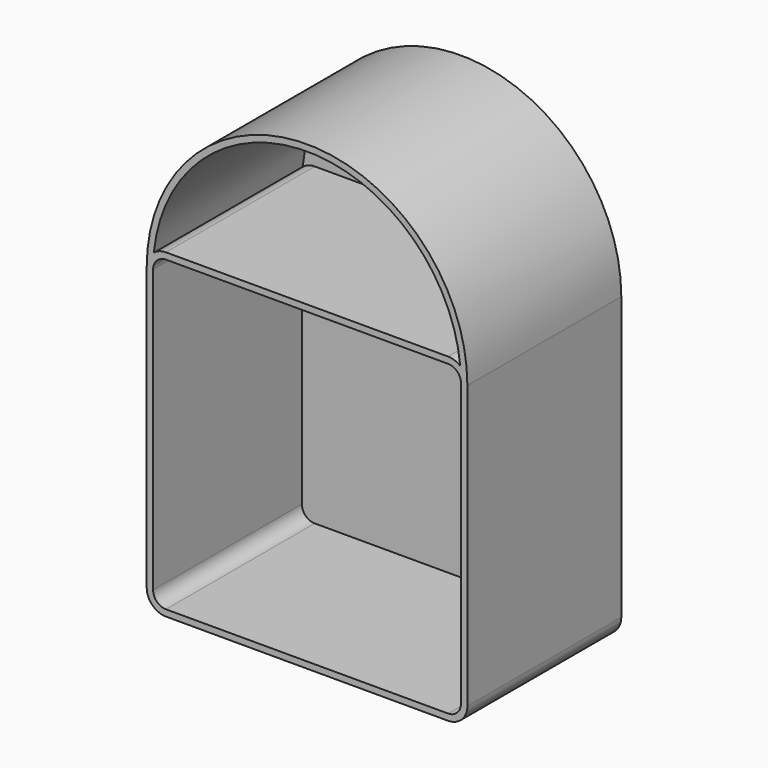
from build123d import *

# Parameters (mm, degrees)
F0_R     = 14.15
F1_DEPTH = 10
F2_DEPTH = 300


with BuildPart() as f1:
    # F0 (on Front) → F1 (new body)
    with BuildSketch(Plane.XZ):
        with BuildLine():
            Line((220, 239.999995), (-220, 239.999995))
            ThreePointArc((-220, 239.999995), (-234.142132, 234.142132), (-239.999995, 220))
            Line((-239.999995, 220), (-239.999995, -220))
            ThreePointArc((-239.999995, -220), (-234.142132, -234.142132), (-220, -239.999995))
            Line((-220, -239.999995), (220, -239.999995))
            ThreePointArc((220, -239.999995), (234.142132, -234.142132), (239.999995, -220))
            Line((239.999995, -220), (239.999995, 220))
            ThreePointArc((239.999995, 220), (234.142132, 234.142132), (220, 239.999995))
        make_face()
        with BuildLine():
            ThreePointArc((-238.863636, 243.327306), (-230.004519, 248.282673), (-220, 250))
            Line((-220, 250), (220, 250))
            ThreePointArc((220, 250), (230.004519, 248.282673), (238.863636, 243.327306))
            ThreePointArc((238.863636, 243.327306), (0, 460), (-238.863636, 243.327306))
        make_face()
        with Locations((-73.455, 355)):
            Circle(F0_R, mode=Mode.SUBTRACT)
        with Locations((-24.485, 355)):
            Circle(F0_R, mode=Mode.SUBTRACT)
        with Locations((24.485, 355)):
            Circle(F0_R, mode=Mode.SUBTRACT)
        with Locations((73.455, 355)):
            Circle(F0_R, mode=Mode.SUBTRACT)
    extrude(amount=F1_DEPTH)


with BuildPart() as f2:
    # F0 (on Front) → F2 (new body)
    with BuildSketch(Plane.XZ):
        with BuildLine():
            Line((220, 250), (-220, 250))
            ThreePointArc((-220, 250), (-230.004519, 248.282673), (-238.863636, 243.327306))
            ThreePointArc((-238.863636, 243.327306), (-247.073133, 232.924607), (-250, 220))
            Line((-250, 220), (-250, -220))
            ThreePointArc((-250, -220), (-241.213203, -241.213203), (-220, -250))
            Line((-220, -250), (220, -250))
            ThreePointArc((220, -250), (241.213203, -241.213203), (250, -220))
            Line((250, -220), (250, 220))
            ThreePointArc((250, 220), (247.073133, 232.924607), (238.863636, 243.327306))
            ThreePointArc((238.863636, 243.327306), (230.004519, 248.282673), (220, 250))
        make_face()
        with BuildLine():
            ThreePointArc((-239.999995, 220), (-234.142132, 234.142132), (-220, 239.999995))
            Line((-220, 239.999995), (220, 239.999995))
            ThreePointArc((220, 239.999995), (234.142132, 234.142132), (239.999995, 220))
            Line((239.999995, 220), (239.999995, -220))
            ThreePointArc((239.999995, -220), (234.142132, -234.142132), (220, -239.999995))
            Line((220, -239.999995), (-220, -239.999995))
            ThreePointArc((-220, -239.999995), (-234.142132, -234.142132), (-239.999995, -220))
            Line((-239.999995, -220), (-239.999995, 220))
        make_face(mode=Mode.SUBTRACT)
        with BuildLine():
            ThreePointArc((-250, 220), (-247.073133, 232.924607), (-238.863636, 243.327306))
            ThreePointArc((-238.863636, 243.327306), (0, 460), (238.863636, 243.327306))
            ThreePointArc((238.863636, 243.327306), (247.073133, 232.924607), (250, 220))
            ThreePointArc((250, 220), (0, 470), (-250, 220))
        make_face()
    extrude(amount=F2_DEPTH)


solid = Compound([f1.part, f2.part])
